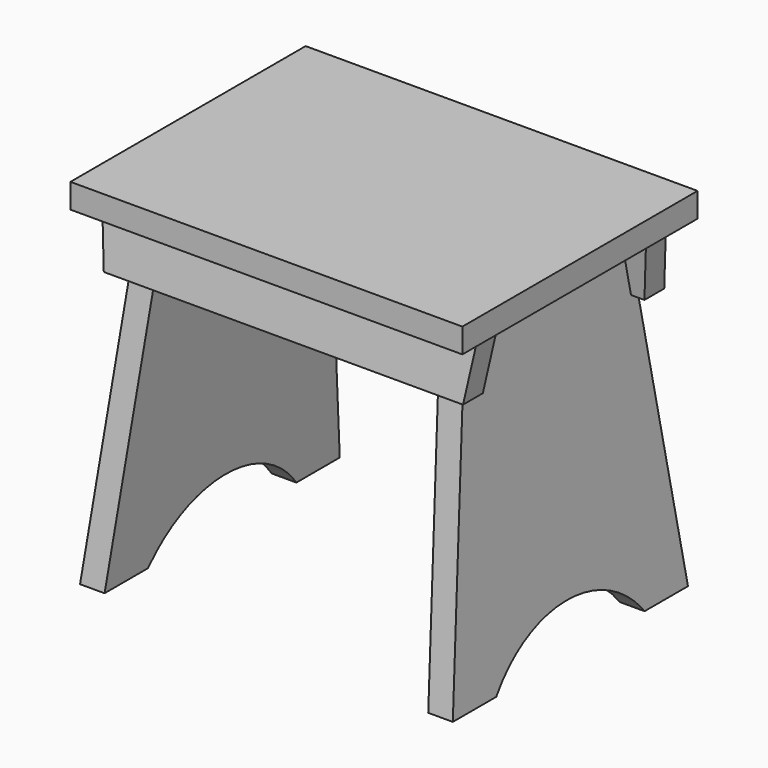
from build123d import *

# Parameters (mm, degrees)
F1_DEPTH      = 114.3
F2_DEPTH      = 114.3
F2_DEPTH_BACK = 114.3
F4_DEPTH      = 152.401
F4_DEPTH_BACK = 152.401
F6_DEPTH      = 152.4
F6_DEPTH_BACK = 152.4
F7_DEPTH      = 114.3010000004
F7_DEPTH_BACK = 114.3010000004


with BuildPart() as f1:
    # F0 (on Front) → F1 (new body, symmetric)
    with BuildSketch(Plane.XZ):
        Polygon((152.4, -9.525), (152.4, 9.525), (-152.4, 9.525), (-152.4, -9.525), (-146.05, -9.525), (-125.8450143232, -9.525), (-106.7412091007, -9.525), (106.7412091007, -9.525), (125.8450143232, -9.525), (146.05, -9.525), align=None)
    extrude(amount=F1_DEPTH, both=True)


with BuildPart() as f2:
    # F0 (on Front) → F2 (new body, two sides)
    with BuildSketch(Plane.XZ) as f2_sk:
        Polygon((144.9488195456, -263.525), (129.8880271086, -63.2800103521), (110.7842218861, -63.2800103521), (125.8450143232, -263.525), align=None)
        Polygon((129.8880271086, -63.2800103521), (125.8450143232, -9.525), (106.7412091007, -9.525), (110.7842218861, -63.2800103521), align=None)
    extrude(amount=-F2_DEPTH)
    extrude(f2_sk.sketch, amount=F2_DEPTH_BACK)


with BuildPart() as f2b:
    # F0 (on Front) → F2, piece 2 (new body, two sides)
    with BuildSketch(Plane.XZ) as f2_2_sk:
        Polygon((-106.7412091007, -9.525), (-125.8450143232, -9.525), (-129.8880271086, -63.2800103521), (-110.7842218861, -63.2800103521), align=None)
        Polygon((-110.7842218861, -63.2800103521), (-129.8880271086, -63.2800103521), (-144.9488195456, -263.525), (-125.8450143232, -263.525), align=None)
    extrude(amount=-F2_DEPTH)
    extrude(f2_2_sk.sketch, amount=F2_DEPTH_BACK)


with BuildPart() as f4_tool:
    # F3 (on Right) → F4 (new body, two sides)
    with BuildSketch(Plane.YZ) as f4_sk:
        Polygon((114.3000000002, -9.525), (78.6026279859, -9.525), (114.3000000004, -263.525), align=None)
        with BuildLine():
            ThreePointArc((72.1161812544, -263.525), (0, -227.4881327199), (-72.1161812544, -263.525))
            Line((-72.1161812544, -263.525), (72.1161812544, -263.525))
        make_face()
        Polygon((-114.3, -9.525), (-114.3, -263.525), (-78.6026279859, -9.525), align=None)
    extrude(amount=-F4_DEPTH)
    extrude(f4_sk.sketch, amount=F4_DEPTH_BACK)


with BuildPart() as f2_1:
    add(f2.part)

    # F4: cut by f4_tool
    add(f4_tool.part, mode=Mode.SUBTRACT)


with BuildPart() as f2b_1:
    add(f2b.part)

    # F4: cut by f4_tool
    add(f4_tool.part, mode=Mode.SUBTRACT)


with BuildPart() as f6:
    # F5 (on Right) → F6 (new body, two sides)
    with BuildSketch(Plane.YZ) as f6_sk:
        Polygon((84.961160059, -54.7683065912), (78.6026279859, -9.525), (72.1902229004, -9.525), (78.5487549735, -54.7683065912), align=None)
        Polygon((91.4274381569, -9.525), (78.602627986, -9.525), (84.961160059, -54.7683065912), (97.7859702299, -54.7683065912), align=None)
    extrude(amount=F6_DEPTH)
    extrude(f6_sk.sketch, amount=-F6_DEPTH_BACK)


with BuildPart() as f6b:
    # F5 (on Right) → F6, piece 2 (new body, two sides)
    with BuildSketch(Plane.YZ) as f6_2_sk:
        Polygon((-78.5487549735, -54.7683065912), (-72.1902229004, -9.525), (-78.6026279857, -9.525), (-84.9611600589, -54.7683065912), align=None)
        Polygon((-84.9611600589, -54.7683065912), (-78.6026279859, -9.525), (-91.4274381569, -9.525), (-97.7859702299, -54.7683065912), align=None)
    extrude(amount=F6_DEPTH)
    extrude(f6_2_sk.sketch, amount=-F6_DEPTH_BACK)


with BuildPart() as f7_tool:
    # F0 (on Front) → F7 (new body, two sides)
    with BuildSketch(Plane.XZ) as f7_sk:
        Polygon((-146.05, -9.525), (-152.4, -9.525), (-152.4, -63.2800103521), (-138.4952259757, -63.2800103521), align=None)
        Polygon((152.4, -63.2800103521), (152.4, -9.525), (146.05, -9.525), (138.4952259757, -63.2800103521), align=None)
    extrude(amount=-F7_DEPTH)
    extrude(f7_sk.sketch, amount=F7_DEPTH_BACK)


with BuildPart() as f6_1:
    add(f6.part)

    # F7: cut by f7_tool
    add(f7_tool.part, mode=Mode.SUBTRACT)

    # F8: cut F2b
    add(f2b_1.part, mode=Mode.SUBTRACT)

    # F9: cut F2
    add(f2_1.part, mode=Mode.SUBTRACT)


with BuildPart() as f6b_1:
    add(f6b.part)

    # F7: cut by f7_tool
    add(f7_tool.part, mode=Mode.SUBTRACT)

    # F10: cut F2
    add(f2_1.part, mode=Mode.SUBTRACT)

    # F11: cut F2b
    add(f2b_1.part, mode=Mode.SUBTRACT)


solid = Compound([f1.part, f2_1.part, f2b_1.part, f6_1.part, f6b_1.part])
